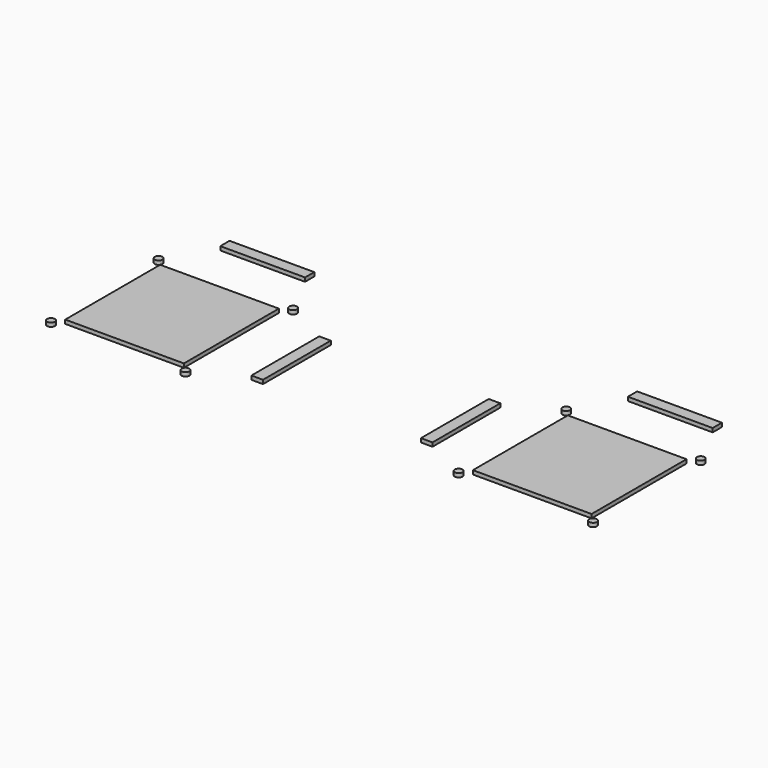
from build123d import *

# Parameters (mm, degrees)
F0_W     = 3
F0_H     = 22
F0_W_2   = 22
F0_H_2   = 3
F0_W_3   = 30.8
F0_H_3   = 30.8
F0_R     = 1
F1_DEPTH = 1


with BuildPart() as f1:
    # F0 (on Top) → F1 (new body)
    with BuildSketch(Plane.XY):
        with Locations((22, 0)):
            Rectangle(F0_W, F0_H)
        with Locations((52.9, 30.9)):
            Rectangle(F0_W_2, F0_H_2)
        with Locations((-52.9, 30.9)):
            Rectangle(F0_W_2, F0_H_2)
        with Locations((-22, 0)):
            Rectangle(F0_W, F0_H)
        with Locations((-52.9, 0)):
            Rectangle(F0_W_3, F0_H_3)
        with Locations((52.9, 0)):
            Rectangle(F0_W_3, F0_H_3)
        with Locations((35.45, -17.45)):
            Circle(F0_R)
        with Locations((35.45, 17.45)):
            Circle(F0_R)
        with Locations((-70.35, -17.45)):
            Circle(F0_R)
        with Locations((-70.35, 17.45)):
            Circle(F0_R)
        with Locations((70.35, 17.45)):
            Circle(F0_R)
        with Locations((70.35, -17.45)):
            Circle(F0_R)
        with Locations((-35.45, -17.45)):
            Circle(F0_R)
        with Locations((-35.45, 17.45)):
            Circle(F0_R)
    extrude(amount=F1_DEPTH)


solid = f1.part
